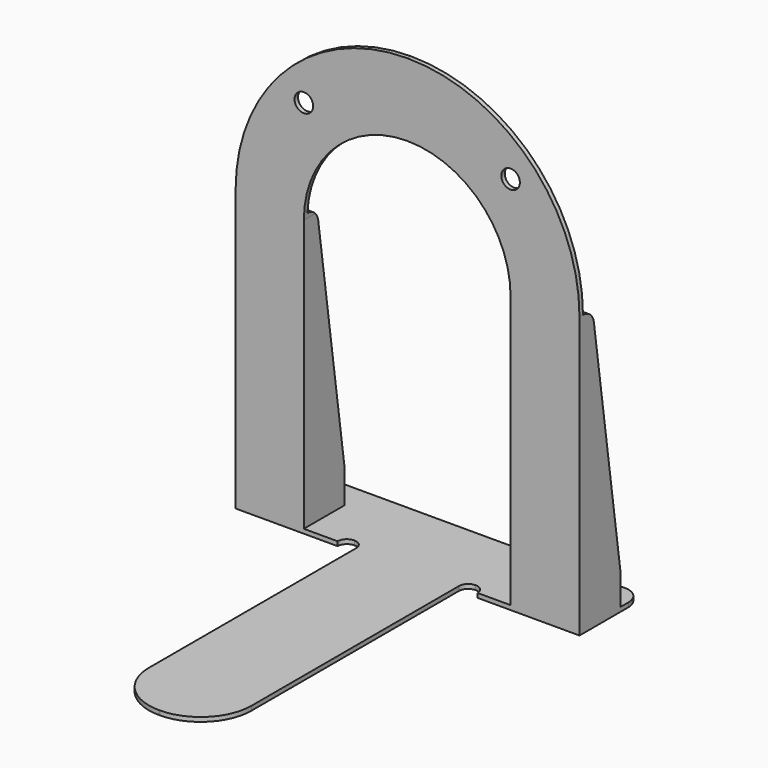
from build123d import *

# Parameters (mm, degrees)
F1_DEPTH = 126.746
F3_DEPTH = 1.6012
F4_R     = 3.429
F5_DEPTH = 28.9316
F7_DEPTH = 25.4


with BuildPart() as f1:
    # F0 (on Right) → F1 (new body)
    with BuildSketch(Plane.YZ):
        with BuildLine():
            Line((16.653205, 65.313007), (15.053005, 65.313007))
            Line((15.053005, 65.313007), (15.053005, -19.597488))
            Line((15.053005, -19.597488), (15.053005, -99.786993))
            Line((15.053005, -99.786993), (-99.246995, -99.786993))
            Line((-99.246995, -99.786993), (-99.246995, -101.387193))
            Line((-99.246995, -101.387193), (43.983605, -101.387193))
            Line((43.983605, -101.387193), (43.983605, -99.786993))
            Line((43.983605, -99.786993), (33.849005, -99.786993))
            Line((33.849005, -99.786993), (33.849005, -87.752856))
            Line((33.849005, -87.752856), (21.68237, -2.397729))
            ThreePointArc((21.68237, -2.397729), (19.982223, 0.722598), (16.653205, 1.965407))
            Line((16.653205, 1.965407), (16.653205, 65.313007))
        make_face()
    extrude(amount=F1_DEPTH)

    # F2 (on face) → F3 (cut, through all)
    with BuildSketch(Plane.XY.offset(-99.786993)):
        with BuildLine():
            Line((0, -99.246995), (63.246, -99.246995))
            ThreePointArc((63.246, -99.246995), (49.955221, -93.741774), (44.45, -80.450995))
            Line((44.45, -80.450995), (44.45, 15.053005))
            Line((44.45, 15.053005), (0, 15.053005))
            Line((0, 15.053005), (0, -99.246995))
        make_face()
        with BuildLine():
            ThreePointArc((82.296, -80.450995), (76.790779, -93.741774), (63.5, -99.246995))
            Line((63.5, -99.246995), (126.746, -99.246995))
            Line((126.746, -99.246995), (126.746, 15.053005))
            Line((126.746, 15.053005), (82.296, 15.053005))
            Line((82.296, 15.053005), (82.296, -80.450995))
        make_face()
    extrude(amount=-F3_DEPTH, mode=Mode.SUBTRACT)

    # F4 (on face) → F5 (cut, through all)
    with BuildSketch(Plane.XZ.offset(-15.053005)):
        with BuildLine():
            Line((0, 65.313007), (0, 2.067007))
            ThreePointArc((0, 2.067007), (18.524325, 46.788682), (63.246, 65.313007))
            Line((63.246, 65.313007), (0, 65.313007))
        make_face()
        with BuildLine():
            Line((126.746, 65.313007), (63.5, 65.313007))
            ThreePointArc((63.5, 65.313007), (108.221675, 46.788682), (126.746, 2.067007))
            Line((126.746, 2.067007), (126.746, 65.313007))
        make_face()
        with BuildLine():
            Line((25.146, 0.365207), (25.146, -99.786993))
            Line((25.146, -99.786993), (44.45, -99.786993))
            Line((44.45, -99.786993), (82.296, -99.786993))
            Line((82.296, -99.786993), (101.346, -99.786993))
            Line((101.346, -99.786993), (101.346, 0.365207))
            ThreePointArc((101.346, 0.365207), (90.186768, 27.305975), (63.246, 38.465207))
            ThreePointArc((63.246, 38.465207), (36.305232, 27.305975), (25.146, 0.365207))
        make_face()
        with Locations((25.146, 38.465207)):
            Circle(F4_R)
        with Locations((101.346, 38.465207)):
            Circle(F4_R)
    extrude(amount=-F5_DEPTH, mode=Mode.SUBTRACT)

    # F6 (on face) → F7 (cut)
    with BuildSketch(Plane(origin=(0, 0, -101.387193), x_dir=(1, 0, 0), z_dir=(0, 0, -1))):
        with BuildLine():
            ThreePointArc((6.35, -43.983605), (1.859872, -42.123733), (0, -37.633605))
            Line((0, -37.633605), (0, -43.983605))
            Line((0, -43.983605), (6.35, -43.983605))
        make_face()
        with BuildLine():
            ThreePointArc((37.592, -15.053005), (38.596331, -17.477674), (41.021, -18.482005))
            ThreePointArc((41.021, -18.482005), (43.445669, -17.477674), (44.45, -15.053005))
            Line((44.45, -15.053005), (37.592, -15.053005))
        make_face()
        with BuildLine():
            Line((89.154, -15.053005), (82.296, -15.053005))
            ThreePointArc((82.296, -15.053005), (83.300331, -17.477674), (85.725, -18.482005))
            ThreePointArc((85.725, -18.482005), (88.149669, -17.477674), (89.154, -15.053005))
        make_face()
        with BuildLine():
            ThreePointArc((126.746, -37.633605), (124.886128, -42.123733), (120.396, -43.983605))
            Line((120.396, -43.983605), (126.746, -43.983605))
            Line((126.746, -43.983605), (126.746, -37.633605))
        make_face()
    extrude(amount=-F7_DEPTH, mode=Mode.SUBTRACT)


solid = f1.part
